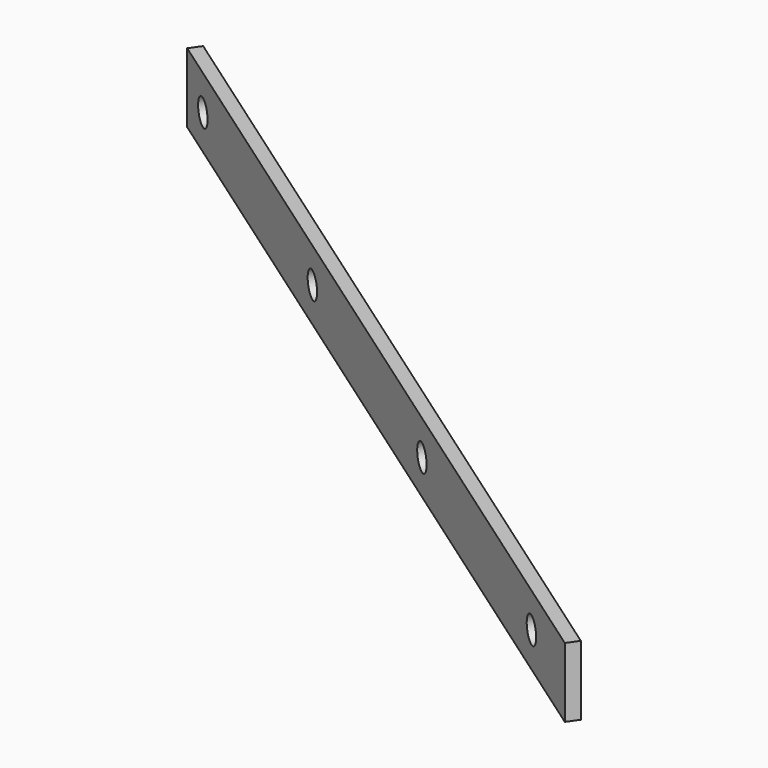
from build123d import *

# Parameters (mm, degrees)
PAD006_DEPTH           = 32
SKETCH014_R            = 6
POCKET004_DEPTH        = 232.77922
LINEARPATTERN002_COUNT = 4
LINEARPATTERN002_PITCH = 140


with BuildPart() as part:
    # Sketch013 → Pad006 (new body)
    with BuildSketch(Plane.XY):
        Polygon((-385.11428, 291.5), (10.26148, 14.654912), (6.820021, 9.74), (-388.555739, 286.585088), align=None)
    extrude(amount=PAD006_DEPTH)

    # Sketch014 (on Face3 of Pad006) → Pocket004 (cut, through all)
    with BuildSketch(Plane(origin=(6.820021, 9.74, 0), x_dir=(0.819152, -0.573576, 0), z_dir=(-0.573576, -0.819152, 0))):
        with Locations((-462.664681, 16)):
            Circle(SKETCH014_R)
    pocket004 = extrude(amount=-POCKET004_DEPTH, mode=Mode.SUBTRACT)

    # LinearPattern002: Pocket004 ×4
    with Locations(*[Vector(0.819152, -0.573576, 0) * (i * LINEARPATTERN002_PITCH) for i in range(1, LINEARPATTERN002_COUNT)]):
        add(pocket004, mode=Mode.SUBTRACT)


with BuildPart() as part_1:
    # Body005 placement: moved
    add(part.part.moved(Location((0, 0, 9))))


solid = part_1.part
